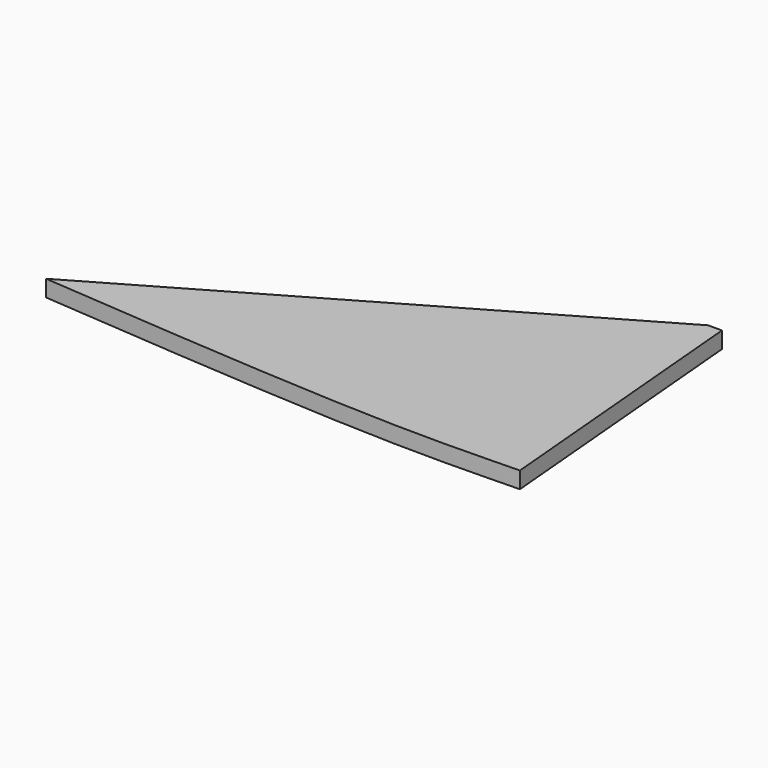
from build123d import *

# Parameters (mm, degrees)
F2_DEPTH = 289.62096


with BuildPart() as f2:
    # F1 (on face) → F2 (new body)
    with BuildSketch(Plane.XY):
        with BuildLine():
            Line((10107.6422951893, 5835.65), (2171.446, 1253.6849326307))
            add(Edge.make_bspline(
                [(2171.446, 1253.6849326307), (4546.0449781619, 1064.7242528498), (8353.0141507847, 768.7265022765), (10421.5536540775, 862.3831522697), (10785.1970337564, 866.8890709604)],
                knots=[0, 0, 0, 0, 0.6430051741, 0.9751479153, 0.9751479153, 0.9751479153, 0.9751479153], degree=3))
            Line((10785.1970337564, 866.8890709604), (10350.4867806949, 5835.65))
            Line((10350.4867806949, 5835.65), (10107.6422951893, 5835.65))
        make_face()
    extrude(amount=F2_DEPTH)


solid = f2.part
